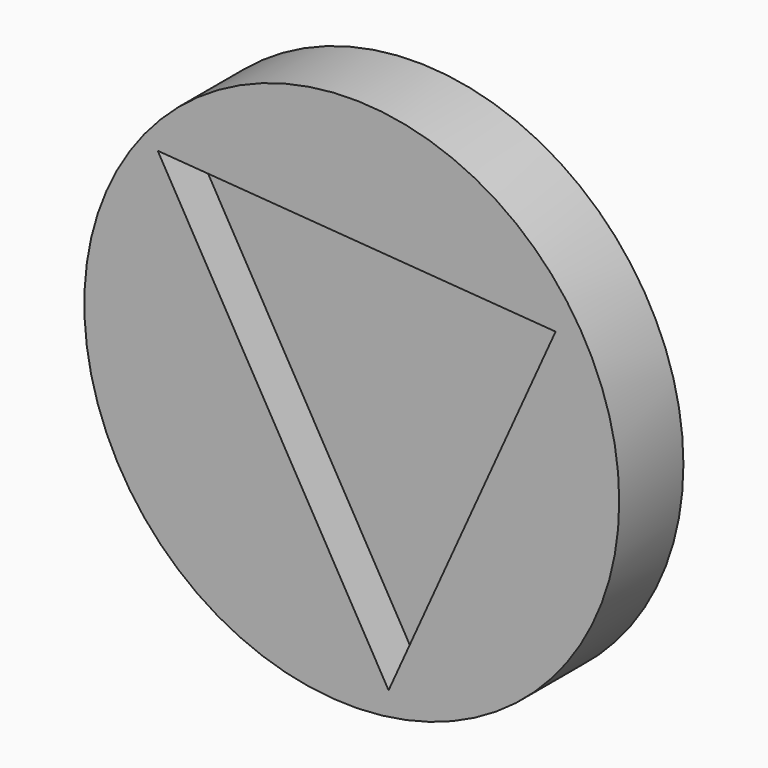
from build123d import *

# Parameters (mm, degrees)
F0_R     = 63.5
F1_DEPTH = 19.05
F3_DEPTH = 9.398
F5_DEPTH = 15.875
F6_DEPTH = 6.35


with BuildPart() as f1:
    # F0 (on Front) → F1 (new body)
    with BuildSketch(Plane.XZ):
        Circle(F0_R)
        Polygon((8.743819, -57.302647), (-46.065888, 37.630551), (48.387803, 30.548667), align=None, mode=Mode.SUBTRACT)
    extrude(amount=F1_DEPTH)

    # F0 (on Front) → F3 (join)
    with BuildSketch(Plane.XZ):
        Polygon((48.387803, 30.548667), (-46.065888, 37.630551), (8.743819, -57.302647), align=None)
    extrude(amount=F3_DEPTH)

    # F4 (on Top) → F5 (join, symmetric)
    with BuildSketch(Plane.XY):
        with BuildLine():
            Line((-53.051135, 0), (-7.331135, 0))
            Line((-7.331135, 0), (-7.331135, 45.72))
            Line((-7.331135, 45.72), (-17.491135, 45.72))
            Line((-17.491135, 45.72), (-17.491135, 38.676579))
            ThreePointArc((-17.491135, 38.676579), (-30.412613, 4.622678), (-42.891135, 38.841375))
            Line((-42.891135, 38.841375), (-42.891135, 45.72))
            Line((-42.891135, 45.72), (-53.051135, 45.72))
            Line((-53.051135, 45.72), (-53.051135, 0))
        make_face()
    extrude(amount=F5_DEPTH, both=True)

    # F2 (on Front) → F6 (join)
    with BuildSketch(Plane.XZ):
        Polygon((49.277871, 31.809548), (-45.183003, 38.79497), (9.723624, -56.082206), align=None)
    extrude(amount=F6_DEPTH)


solid = f1.part
